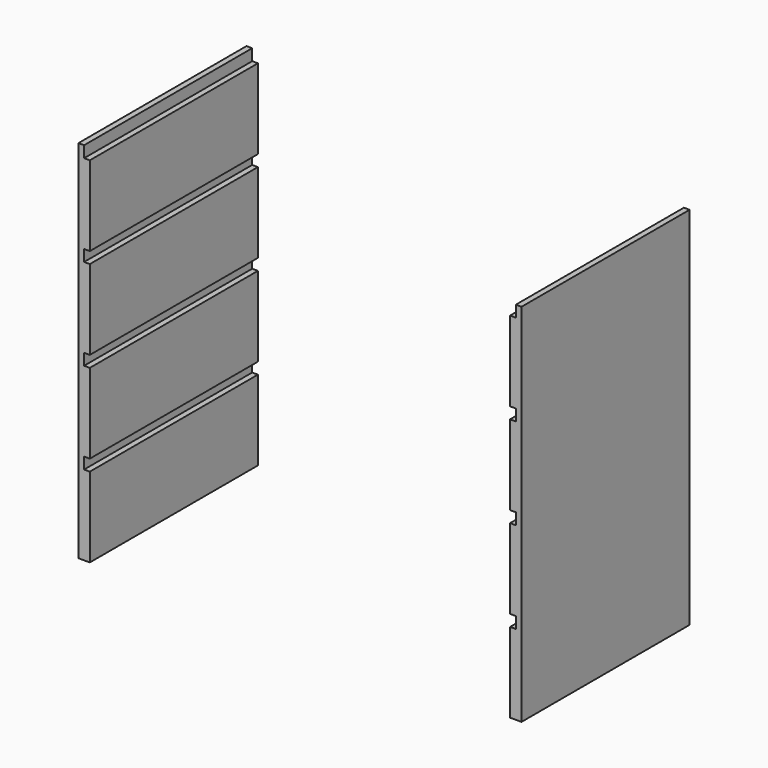
from build123d import *

# Parameters (mm, degrees)
F1_DEPTH = 146.05


with BuildPart() as f1:
    # F0 (on Front) → F1 (new body, symmetric)
    with BuildSketch(Plane.XZ):
        Polygon((7.9375, 508), (0, 508), (0, 0), (15.875, 0), (15.875, 111.125), (7.9375, 111.125), (7.9375, 127), (15.875, 127), (15.875, 238.125), (7.9375, 238.125), (7.9375, 254), (15.875, 254), (15.875, 365.125), (7.9375, 365.125), (7.9375, 381), (15.875, 381), (15.875, 492.125), (7.9375, 492.125), align=None)
    extrude(amount=F1_DEPTH, both=True)


with BuildPart() as f3_1:
    # F3: instance of F1
    add(f1.part.mirror(Plane(origin=(307.975, 0, 55.5625), x_dir=(0, 1, 0), z_dir=(1, 0, 0))))


solid = Compound([f1.part, f3_1.part])
